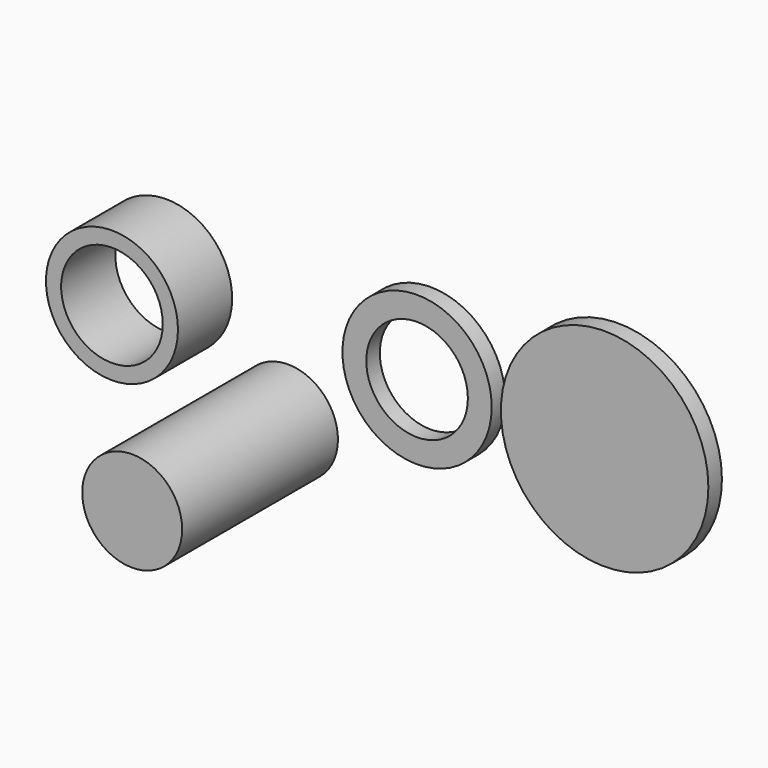
from build123d import *

# Parameters (mm, degrees)
F1_W      = 24.137928909
F1_H      = 30
F0_R      = 38.9718812083
F0_R_2    = 30
F3_DEPTH  = 40
F4_R      = 44.0713811991
F4_R_2    = 30
F5_DEPTH  = 10
F6_R      = 61.2580869617
F7_DEPTH  = 10
F9_R      = 29.5
F10_DEPTH = 50
F11_DEPTH = 25
F12_R     = 29.5
F13_DEPTH = 40


with BuildPart() as f2:
    # F1 (on Front) → F2 (revolve)
    with BuildSketch(Plane.XZ):
        with Locations((22.931023988, 15)):
            Rectangle(F1_W, F1_H)
    revolve(axis=Axis((22.931023988, 0, 0), (-1, 0, 0)))


with BuildPart() as f3:
    # F0 (on Front) → F3 (new body)
    with BuildSketch(Plane.XZ):
        with Locations((-53.4353193952, 0)):
            Circle(F0_R)
        with Locations((-53.4353193952, 0)):
            Circle(F0_R_2, mode=Mode.SUBTRACT)
    extrude(amount=F3_DEPTH)


with BuildPart() as f5:
    # F4 (on Front) → F5 (new body)
    with BuildSketch(Plane.XZ):
        with Locations((102.7198269619, 0)):
            Circle(F4_R)
        with Locations((102.7198269619, 0)):
            Circle(F4_R_2, mode=Mode.SUBTRACT)
    extrude(amount=F5_DEPTH)


with BuildPart() as f7:
    # F6 (on Front) → F7 (new body)
    with BuildSketch(Plane.XZ):
        with Locations((213.4593129158, 0)):
            Circle(F6_R)
    extrude(amount=F7_DEPTH)


with BuildPart() as f10:
    # F9 (on Front) → F10 (new body)
    with BuildSketch(Plane.XZ):
        with Locations((18.5059607029, -53.0171394348)):
            Circle(F9_R)
    extrude(amount=F10_DEPTH)

    # F11 (add): a face of the model
    f11_faces = [f10.faces().sort_by_distance(p)[0] for p in [
        (18.5059607029, -50, -53.0171394348),
    ]]
    extrude(f11_faces, amount=F11_DEPTH)

    # F12 (on face) → F13 (join)
    with BuildSketch(Plane.XZ.offset(75)):
        with Locations((18.5059607029, -53.0171394348)):
            Circle(F12_R)
    extrude(amount=F13_DEPTH)


solid = Compound([f3.part, f5.part, f7.part, f10.part])
